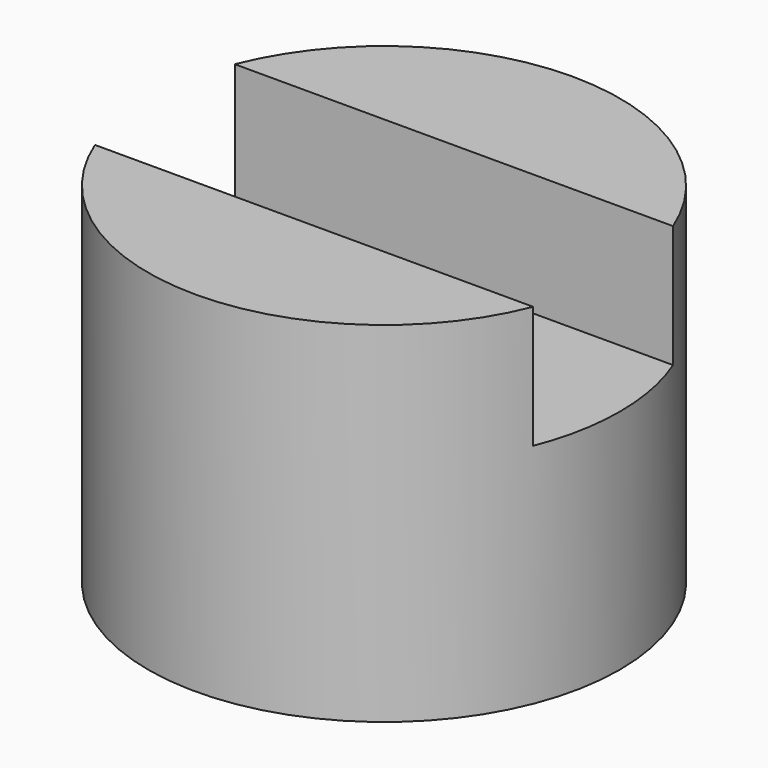
from build123d import *

# Parameters (mm, degrees)
BOX009_W          = 3
BOX009_H          = 1
BOX009_DEPTH      = 0.7
CYLINDER005_R     = 1.35
CYLINDER005_DEPTH = 2


with BuildPart() as cube005:
    # Box009 → Box009 (new body)
    with BuildSketch(Plane(origin=(-1.5, -0.5, 1.3), x_dir=(1, 0, 0), z_dir=(0, 0, 1))):
        with Locations((1.5, 0.5)):
            Rectangle(BOX009_W, BOX009_H)
    extrude(amount=BOX009_DEPTH)


with BuildPart() as cut009:
    # Cylinder005 → Cylinder005 (new body)
    with BuildSketch(Plane.XY):
        Circle(CYLINDER005_R)
    extrude(amount=CYLINDER005_DEPTH)

    # Cut009: cut Cube005
    add(cube005.part, mode=Mode.SUBTRACT)


with BuildPart() as cut009_1:
    # Cut009 placement: moved
    add(cut009.part.moved(Location((-1.75, 4.1, 10))))


solid = cut009_1.part
